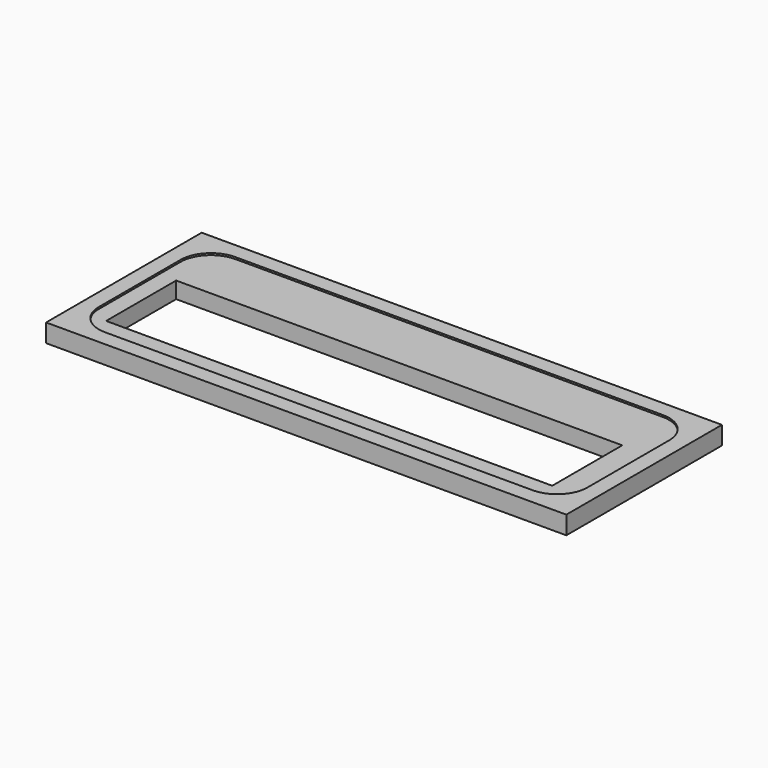
from build123d import *

# Parameters (mm, degrees)
F0_W     = 428
F0_H     = 160
F0_W_2   = 402
F0_H_2   = 134
F1_DEPTH = 15
F2_DEPTH = 13.5
F3_R     = 25


with BuildPart() as f1:
    # F0 (on Top) → F1 (new body)
    with BuildSketch(Plane.XY):
        with Locations((214, -80)):
            Rectangle(F0_W, F0_H)
        with Locations((214, -80)):
            Rectangle(F0_W_2, F0_H_2, mode=Mode.SUBTRACT)
    extrude(amount=F1_DEPTH)

    # F0 (on Top) → F2 (join)
    with BuildSketch(Plane.XY):
        with Locations((214, -80)):
            Rectangle(F0_W_2, F0_H_2)
        Polygon((394, -132), (214, -132), (27, -132), (27, -60), (214, -60), (394, -60), align=None, mode=Mode.SUBTRACT)
    extrude(amount=F2_DEPTH)

    # F3
    f3_edges = [f1.edges().sort_by_distance(p)[0] for p in [
        (13, -13, 14.25),
        (13, -147, 14.25),
        (415, -13, 14.25),
        (415, -147, 14.25),
    ]]
    fillet(f3_edges, radius=F3_R)


solid = f1.part
